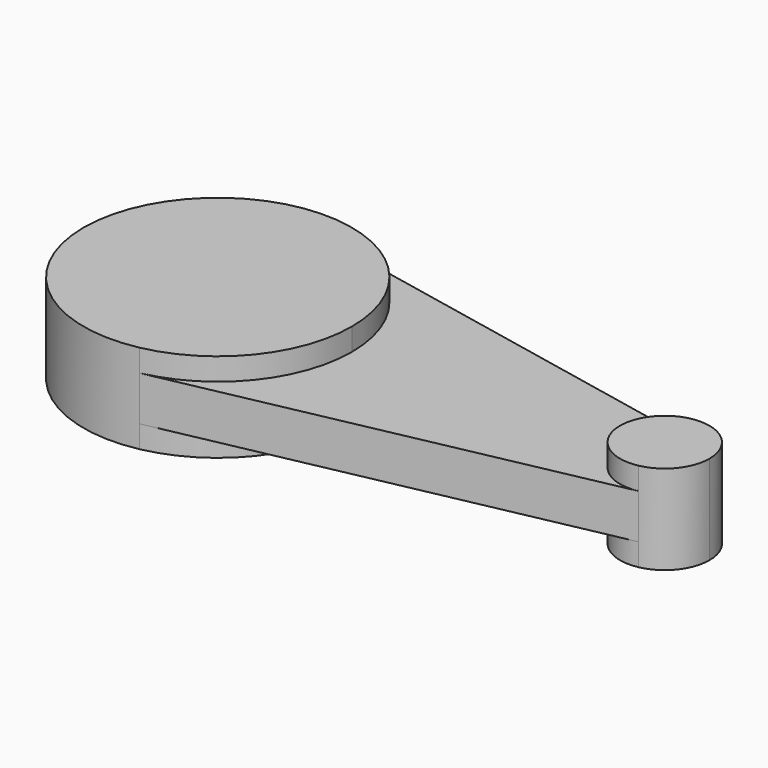
from build123d import *

# Parameters (mm, degrees)
F1_DEPTH = 12.7
F2_DEPTH = 12.7
F3_DEPTH = 6.35


with BuildPart() as f1:
    # F0 (on Top) → F1 (new body, symmetric)
    with BuildSketch(Plane.XY):
        with BuildLine():
            ThreePointArc((7.62, -37.330224), (29.512133, -24.096556), (38.1, 0))
            ThreePointArc((38.1, 0), (29.512133, 24.096556), (7.62, 37.330224))
            ThreePointArc((7.62, 37.330224), (-38.1, 0), (7.62, -37.330224))
        make_face()
    extrude(amount=F1_DEPTH, both=True)


with BuildPart() as f2:
    # F0 (on Top) → F2 (new body, symmetric)
    with BuildSketch(Plane.XY):
        with BuildLine():
            ThreePointArc((139.7, 0), (136.837378, 8.032185), (129.54, 12.443408))
            ThreePointArc((129.54, 12.443408), (114.3, 0), (129.54, -12.443408))
            ThreePointArc((129.54, -12.443408), (136.837378, -8.032185), (139.7, 0))
        make_face()
    extrude(amount=F2_DEPTH, both=True)


with BuildPart() as f3:
    # F0 (on Top) → F3 (new body, symmetric)
    with BuildSketch(Plane.XY):
        with BuildLine():
            ThreePointArc((7.62, 37.330224), (29.512133, 24.096556), (38.1, 0))
            ThreePointArc((38.1, 0), (29.512133, -24.096556), (7.62, -37.330224))
            Line((7.62, -37.330224), (129.54, -12.443408))
            ThreePointArc((129.54, -12.443408), (114.3, 0), (129.54, 12.443408))
            Line((129.54, 12.443408), (7.62, 37.330224))
        make_face()
    extrude(amount=F3_DEPTH, both=True)


solid = Compound([f1.part, f2.part, f3.part])
